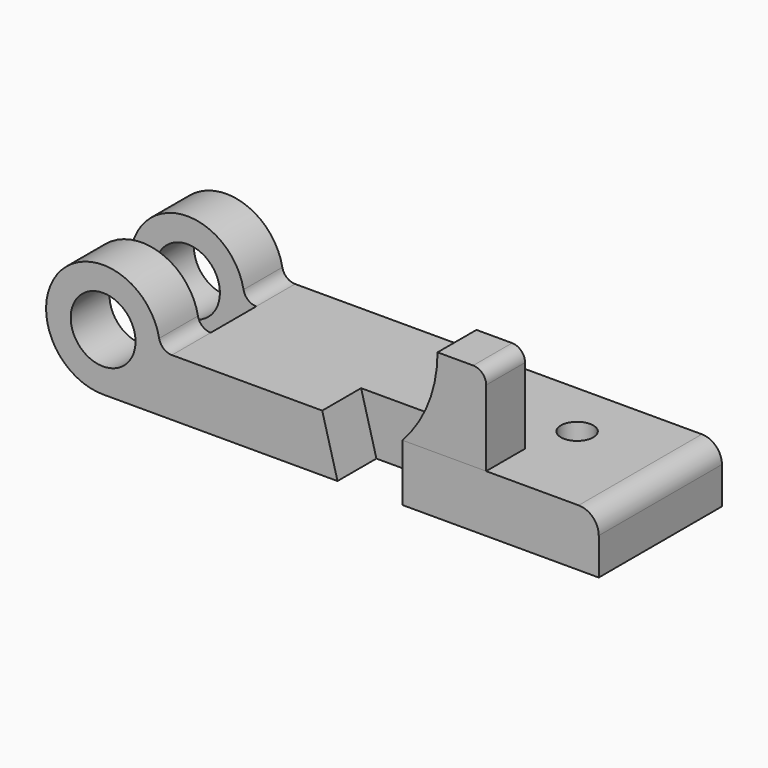
from build123d import *

# Parameters (mm, degrees)
F0_R     = 12.7
F1_DEPTH = 30.1625
F2_R     = 12.7
F3_DEPTH = 11.1633
F5_DEPTH = 19.05
F7_DEPTH = 19.05
F8_R     = 6.35
F9_DEPTH = 22.353


with BuildPart() as f1:
    # F0 (on Front) → F1 (new body, symmetric)
    with BuildSketch(Plane.XZ):
        with BuildLine():
            ThreePointArc((26.957526296, 0), (23.7150398244, 1.1694141767), (21.9653917967, 4.1392592593))
            ThreePointArc((21.9653917967, 4.1392592593), (-17.2065776226, 14.266940475), (0, -22.352))
            Line((0, -22.352), (26.957526296, -22.352))
            Line((26.957526296, -22.352), (26.957526296, 0))
        make_face()
        Circle(F0_R, mode=Mode.SUBTRACT)
        with BuildLine():
            Line((186.3344, 0), (26.957526296, 0))
            Line((26.957526296, 0), (26.957526296, -22.352))
            Line((26.957526296, -22.352), (194.2084, -22.352))
            Line((194.2084, -22.352), (194.2084, -7.874))
            ThreePointArc((194.2084, -7.874), (191.9021587951, -2.3062412049), (186.3344, 0))
        make_face()
    extrude(amount=F1_DEPTH, both=True)

    # F2 (on Front) → F3 (cut, symmetric)
    with BuildSketch(Plane.XZ):
        with BuildLine():
            ThreePointArc((26.957526296, 0), (23.7150398244, 1.1694141767), (21.9653917967, 4.1392592593))
            ThreePointArc((21.9653917967, 4.1392592593), (-17.2065776226, 14.266940475), (0, -22.352))
            Line((0, -22.352), (26.957526296, -22.352))
            Line((26.957526296, -22.352), (26.957526296, 0))
        make_face()
        Circle(F2_R, mode=Mode.SUBTRACT)
    extrude(amount=F3_DEPTH, both=True, mode=Mode.SUBTRACT)

    # F4 (on face) → F5 (cut)
    with BuildSketch(Plane.XZ.offset(30.1625)):
        Polygon((117.2464, 0), (85.852, 0), (91.8464, -22.352), (117.2464, -22.352), align=None)
    extrude(amount=-F5_DEPTH, mode=Mode.SUBTRACT)

    # F8 (on face) → F9 (cut, through all)
    with BuildSketch(Plane.XY):
        with Locations((155.3464, 7.8105)):
            Circle(F8_R)
    extrude(amount=-F9_DEPTH, mode=Mode.SUBTRACT)


with BuildPart() as f7:
    # F6 (on face) → F7 (new body)
    with BuildSketch(Plane.XZ.offset(30.1625)):
        with BuildLine():
            Line((117.2464, 0), (150.0886, 0))
            Line((150.0886, 0), (150.0886, 29.718))
            ThreePointArc((150.0886, 29.718), (148.6007024484, 33.3101024484), (145.0086, 34.798))
            Line((145.0086, 34.798), (131.0386, 34.798))
            ThreePointArc((131.0385999467, 34.798), (127.464415333, 16.0823576399), (117.2464, 0))
        make_face()
    extrude(amount=-F7_DEPTH)


solid = Compound([f1.part, f7.part])
